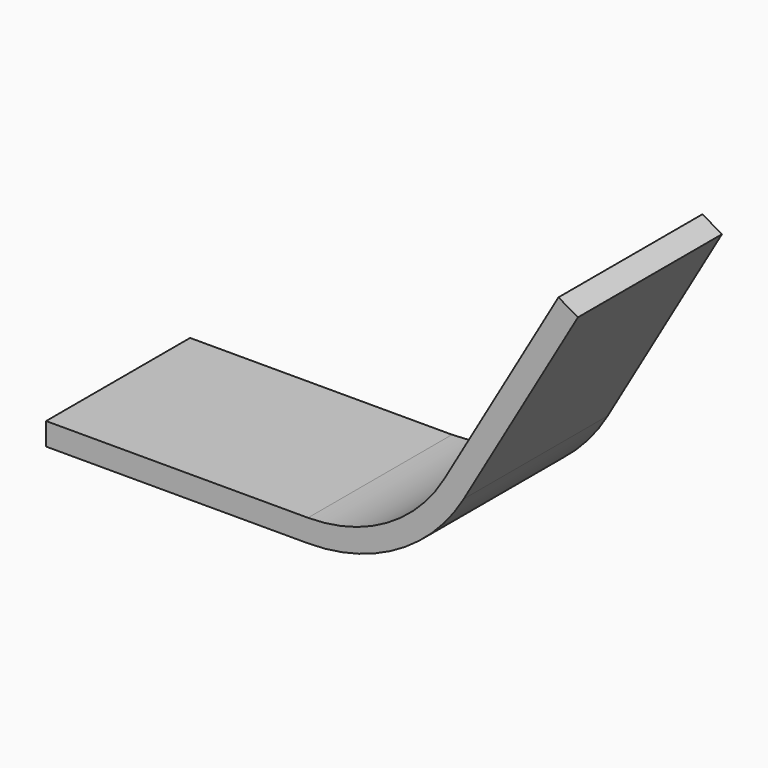
from build123d import *

# Parameters (mm, degrees)
F1_DEPTH = 50.8


with BuildPart() as f1:
    # F0 (on Front) → F1 (new body)
    with BuildSketch(Plane.XZ):
        with BuildLine():
            Line((0, 6.35), (0, 0))
            Line((0, 0), (73.917185, 0))
            ThreePointArc((73.917185, 0), (99.278783, 6.783761), (117.866877, 25.323255))
            Line((117.866877, 25.323255), (150.096558, 80.922371))
            Line((150.096558, 80.922371), (144.602846, 84.106964))
            Line((144.602846, 84.106964), (112.373166, 28.507848))
            ThreePointArc((112.373166, 28.507848), (96.108584, 12.28579), (73.917185, 6.35))
            Line((73.917185, 6.35), (0, 6.35))
        make_face()
    extrude(amount=F1_DEPTH)


solid = f1.part
